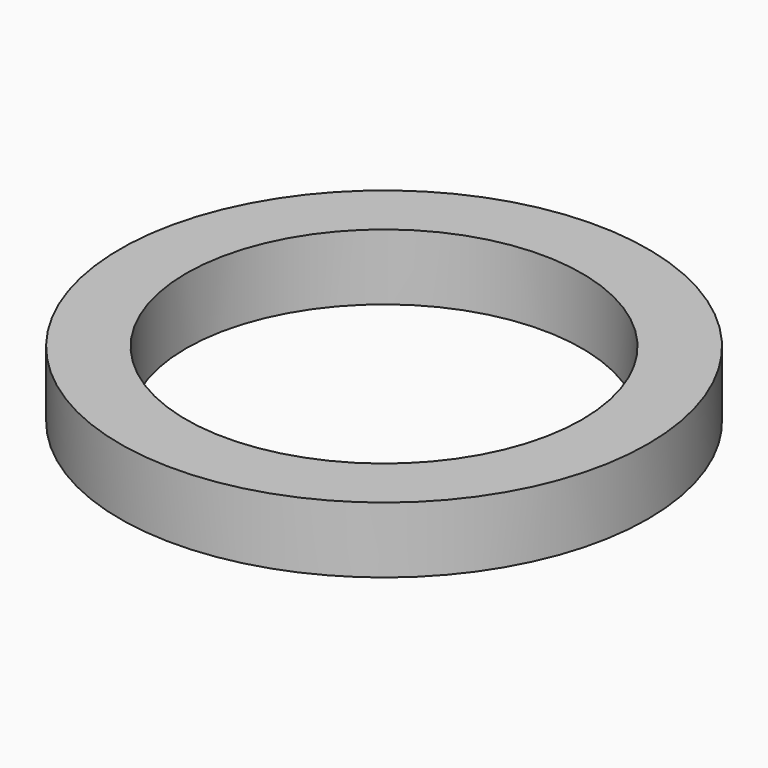
from build123d import *

# Parameters (mm, degrees)
CYLINDER154_R     = 7.14375
CYLINDER154_DEPTH = 2.38125
CYLINDER155_R     = 9.525
CYLINDER155_DEPTH = 2.38125


with BuildPart() as cylinder008:
    # Cylinder154 → Cylinder154 (new body)
    with BuildSketch(Plane.XY.offset(-21)):
        Circle(CYLINDER154_R)
    extrude(amount=CYLINDER154_DEPTH)


with BuildPart() as cut019:
    # Cylinder155 → Cylinder155 (new body)
    with BuildSketch(Plane.XY.offset(-21)):
        Circle(CYLINDER155_R)
    extrude(amount=CYLINDER155_DEPTH)

    # Cut019: cut Cylinder008
    add(cylinder008.part, mode=Mode.SUBTRACT)


solid = cut019.part
